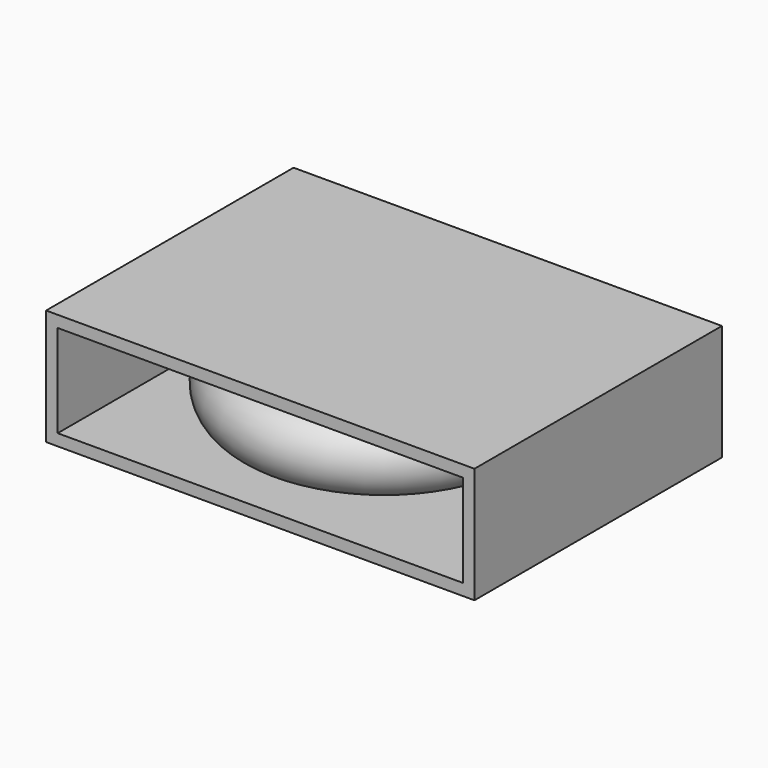
from build123d import *

# Parameters (mm, degrees)
F0_W     = 93.944326
F0_H     = 67.836226
F1_DEPTH = 25.4
F2_T     = -2.54
F3_R     = 7.57382


with BuildPart() as f1:
    # F0 (on Top) → F1 (new body)
    with BuildSketch(Plane.XY):
        Rectangle(F0_W, F0_H)
    extrude(amount=F1_DEPTH)

    # F2
    f2_openings = [f1.faces().sort_by_distance(p)[0] for p in [
        (0, -33.918113, 12.7),
        (0, 33.918113, 12.7),
    ]]
    offset(amount=F2_T, openings=f2_openings)


with BuildPart() as f4:
    # F3 (on Front) → F4 (revolve)
    with BuildSketch(Plane.XZ):
        with Locations((25.718397, 13.176708)):
            Circle(F3_R)
    revolve(axis=Axis((0, 0, 12.303553), (0, 0, 1)))


solid = Compound([f1.part, f4.part])
